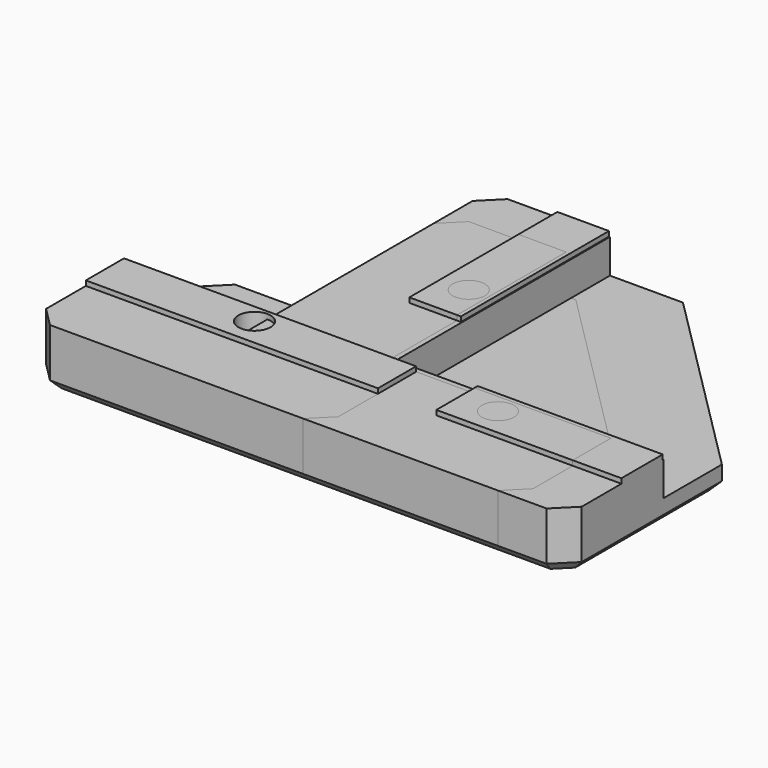
from build123d import *

# Parameters (mm, degrees)
CYLINDER009_R     = 1.65
CYLINDER009_DEPTH = 10
CYLINDER008_R     = 3
CYLINDER008_DEPTH = 2
CYLINDER006_R     = 3
CYLINDER006_DEPTH = 2
CYLINDER007_R     = 1.65
CYLINDER007_DEPTH = 10
BOX011_W          = 30
BOX011_H          = 31
BOX011_DEPTH      = 10
CHAMFER010_SIZE   = 20
BOX007_W          = 35
BOX007_H          = 35
BOX007_DEPTH      = 6
BOX009_W          = 40
BOX009_H          = 40
BOX009_DEPTH      = 6
CHAMFER011_SIZE   = 2
CHAMFER012_SIZE   = 1
BOX008_W          = 19
BOX008_H          = 5.3
BOX008_DEPTH      = 0.5
BOX010_W          = 5.3
BOX010_H          = 19
BOX010_DEPTH      = 0.5
CYLINDER002_R     = 1.65
CYLINDER002_DEPTH = 10
CYLINDER003_R     = 1.65
CYLINDER003_DEPTH = 10
CYLINDER_R        = 3
CYLINDER_DEPTH    = 2
CYLINDER001_R     = 3
CYLINDER001_DEPTH = 2
BOX003_W          = 5.3
BOX003_H          = 14
BOX003_DEPTH      = 0.5
BOX002_W          = 14
BOX002_H          = 5.3
BOX002_DEPTH      = 0.5
BOX001_W          = 35
BOX001_H          = 35
BOX001_DEPTH      = 6
BOX_W             = 35
BOX_H             = 35
BOX_DEPTH         = 6
CHAMFER_SIZE      = 22
CHAMFER001_SIZE   = 2
CHAMFER006_SIZE   = 1
SKETCH_W          = 24
SKETCH_H          = 25
POCKET_DEPTH      = 4
CYLINDER004_R     = 1.65
CYLINDER004_DEPTH = 10
CYLINDER005_R     = 3
CYLINDER005_DEPTH = 2
BOX006_W          = 30
BOX006_H          = 5.3
BOX006_DEPTH      = 0.5
BOX005_W          = 40
BOX005_H          = 30
BOX005_DEPTH      = 6
BOX004_W          = 30
BOX004_H          = 20
BOX004_DEPTH      = 6
CHAMFER007_SIZE   = 5
CHAMFER008_SIZE   = 2
CHAMFER009_SIZE   = 1
SKETCH001_W       = 32
SKETCH001_H       = 9
POCKET001_DEPTH   = 4


with BuildPart() as cylinder009:
    # Cylinder009 → Cylinder009 (new body)
    with BuildSketch(Plane(origin=(25, 10, 0), x_dir=(1, 0, 0), z_dir=(0, 0, 1))):
        Circle(CYLINDER009_R)
    extrude(amount=CYLINDER009_DEPTH)


with BuildPart() as fusion008:
    # Cylinder008 → Cylinder008 (new body)
    with BuildSketch(Plane(origin=(25, 10, 0), x_dir=(1, 0, 0), z_dir=(0, 0, 1))):
        Circle(CYLINDER008_R)
    extrude(amount=CYLINDER008_DEPTH)

    # Fusion008: union Cylinder009
    add(cylinder009.part)


with BuildPart() as fusion008_1:
    # Fusion008 placement: moved
    add(fusion008.part.moved(Location((5, 0, 0))))


with BuildPart() as cylinder006:
    # Cylinder006 → Cylinder006 (new body)
    with BuildSketch(Plane(origin=(10, 25, 0), x_dir=(1, 0, 0), z_dir=(0, 0, 1))):
        Circle(CYLINDER006_R)
    extrude(amount=CYLINDER006_DEPTH)


with BuildPart() as fusion011:
    # Cylinder007 → Cylinder007 (new body)
    with BuildSketch(Plane(origin=(10, 25, 0), x_dir=(1, 0, 0), z_dir=(0, 0, 1))):
        Circle(CYLINDER007_R)
    extrude(amount=CYLINDER007_DEPTH)

    # Fusion009: union Cylinder006
    add(cylinder006.part)


with BuildPart() as fusion011_1:
    # Fusion009 placement: moved
    add(fusion011.part.moved(Location((0, 5, 0))))

    # Fusion011: union Fusion008
    add(fusion008_1.part)


with BuildPart() as chamfer010:
    # Box011 → Box011 (new body)
    with BuildSketch(Plane(origin=(20, 20, 0), x_dir=(1, 0, 0), z_dir=(0, 0, 1))):
        with Locations((15, 15.5)):
            Rectangle(BOX011_W, BOX011_H)
    extrude(amount=BOX011_DEPTH)

    # Chamfer010
    chamfer010_edges = [chamfer010.edges().sort_by_distance(p)[0] for p in [
        (20, 20, 5),
    ]]
    chamfer(chamfer010_edges, length=CHAMFER010_SIZE)


with BuildPart() as cube007:
    # Box007 → Box007 (new body)
    with BuildSketch(Plane(origin=(12.5, 12.5, 2.5), x_dir=(1, 0, 0), z_dir=(0, 0, 1))):
        with Locations((17.5, 17.5)):
            Rectangle(BOX007_W, BOX007_H)
    extrude(amount=BOX007_DEPTH)


with BuildPart() as chamfer012:
    # Box009 → Box009 (new body)
    with BuildSketch(Plane.XY):
        with Locations((20, 20)):
            Rectangle(BOX009_W, BOX009_H)
    extrude(amount=BOX009_DEPTH)

    # Cut007: cut Cube007
    add(cube007.part, mode=Mode.SUBTRACT)

    # Cut008: cut Chamfer010
    add(chamfer010.part, mode=Mode.SUBTRACT)

    # Chamfer011
    chamfer011_edges = [chamfer012.edges().sort_by_distance(p)[0] for p in [
        (0, 0, 3),
        (0, 40, 3),
        (40, 0, 3),
    ]]
    chamfer(chamfer011_edges, length=CHAMFER011_SIZE)

    # Chamfer012
    chamfer012_edges = [chamfer012.edges().sort_by_distance(p)[0] for p in [
        (0, 20, 0),
        (1, 1, 0),
        (1, 39, 0),
        (11, 40, 0),
        (20, 0, 0),
        (39, 1, 0),
        (40, 11, 0),
        (30, 30, 0),
    ]]
    chamfer(chamfer012_edges, length=CHAMFER012_SIZE)


with BuildPart() as cube008:
    # Box008 → Box008 (new body)
    with BuildSketch(Plane(origin=(21, 7.1, 6), x_dir=(1, 0, 0), z_dir=(0, 0, 1))):
        with Locations((9.5, 2.65)):
            Rectangle(BOX008_W, BOX008_H)
    extrude(amount=BOX008_DEPTH)


with BuildPart() as cut009:
    # Box010 → Box010 (new body)
    with BuildSketch(Plane(origin=(7.1, 21, 6), x_dir=(1, 0, 0), z_dir=(0, 0, 1))):
        with Locations((2.65, 9.5)):
            Rectangle(BOX010_W, BOX010_H)
    extrude(amount=BOX010_DEPTH)

    # Fusion007: union Cube008
    add(cube008.part)

    # Fusion010: union Chamfer012
    add(chamfer012.part)

    # Cut009: cut Fusion011
    add(fusion011_1.part, mode=Mode.SUBTRACT)


with BuildPart() as cylinder002:
    # Cylinder002 → Cylinder002 (new body)
    with BuildSketch(Plane(origin=(10, 25, 0), x_dir=(1, 0, 0), z_dir=(0, 0, 1))):
        Circle(CYLINDER002_R)
    extrude(amount=CYLINDER002_DEPTH)


with BuildPart() as fusion001:
    # Cylinder003 → Cylinder003 (new body)
    with BuildSketch(Plane(origin=(25, 10, 0), x_dir=(1, 0, 0), z_dir=(0, 0, 1))):
        Circle(CYLINDER003_R)
    extrude(amount=CYLINDER003_DEPTH)

    # Fusion001: union Cylinder002
    add(cylinder002.part)


with BuildPart() as cylinder:
    # Cylinder → Cylinder (new body)
    with BuildSketch(Plane(origin=(25, 10, 0), x_dir=(1, 0, 0), z_dir=(0, 0, 1))):
        Circle(CYLINDER_R)
    extrude(amount=CYLINDER_DEPTH)


with BuildPart() as fusion003:
    # Cylinder001 → Cylinder001 (new body)
    with BuildSketch(Plane(origin=(10, 25, 0), x_dir=(1, 0, 0), z_dir=(0, 0, 1))):
        Circle(CYLINDER001_R)
    extrude(amount=CYLINDER001_DEPTH)

    # Fusion002: union Cylinder
    add(cylinder.part)

    # Fusion003: union Fusion001
    add(fusion001.part)


with BuildPart() as cube003:
    # Box003 → Box003 (new body)
    with BuildSketch(Plane(origin=(7.1, 21, 6), x_dir=(1, 0, 0), z_dir=(0, 0, 1))):
        with Locations((2.65, 7)):
            Rectangle(BOX003_W, BOX003_H)
    extrude(amount=BOX003_DEPTH)


with BuildPart() as cube002:
    # Box002 → Box002 (new body)
    with BuildSketch(Plane(origin=(21, 7.1, 6), x_dir=(1, 0, 0), z_dir=(0, 0, 1))):
        with Locations((7, 2.65)):
            Rectangle(BOX002_W, BOX002_H)
    extrude(amount=BOX002_DEPTH)


with BuildPart() as cube001:
    # Box001 → Box001 (new body)
    with BuildSketch(Plane(origin=(12.5, 12.5, 2.5), x_dir=(1, 0, 0), z_dir=(0, 0, 1))):
        with Locations((17.5, 17.5)):
            Rectangle(BOX001_W, BOX001_H)
    extrude(amount=BOX001_DEPTH)


with BuildPart() as body:
    # Box → Box (new body)
    with BuildSketch(Plane.XY):
        with Locations((17.5, 17.5)):
            Rectangle(BOX_W, BOX_H)
    extrude(amount=BOX_DEPTH)

    # Cut: cut Cube001
    add(cube001.part, mode=Mode.SUBTRACT)

    # Chamfer
    chamfer_edges = [body.edges().sort_by_distance(p)[0] for p in [
        (35, 35, 1.25),
    ]]
    chamfer(chamfer_edges, length=CHAMFER_SIZE)

    # Chamfer001
    chamfer001_edges = [body.edges().sort_by_distance(p)[0] for p in [
        (0, 35, 3),
        (0, 0, 3),
        (35, 0, 3),
    ]]
    chamfer(chamfer001_edges, length=CHAMFER001_SIZE)

    # Chamfer006
    chamfer006_edges = [body.edges().sort_by_distance(p)[0] for p in [
        (7.5, 35, 0),
        (1, 34, 0),
        (0, 17.5, 0),
        (1, 1, 0),
        (17.5, 0, 0),
        (34, 1, 0),
        (35, 7.5, 0),
        (24, 24, 0),
    ]]
    chamfer(chamfer006_edges, length=CHAMFER006_SIZE)

    # Fusion: union Cube003, Cube002
    add(cube003.part)
    add(cube002.part)

    # Cut004: cut Fusion003
    add(fusion003.part, mode=Mode.SUBTRACT)

    # Sketch (on Face22 of BaseFeature) → Pocket (cut)
    with BuildSketch(Plane.XY.offset(6.5)):
        with Locations((24, 24.5)):
            Rectangle(SKETCH_W, SKETCH_H)
    extrude(amount=-POCKET_DEPTH, mode=Mode.SUBTRACT)


with BuildPart() as cylinder004:
    # Cylinder004 → Cylinder004 (new body)
    with BuildSketch(Plane(origin=(0, 10, 0), x_dir=(1, 0, 0), z_dir=(0, 0, 1))):
        Circle(CYLINDER004_R)
    extrude(amount=CYLINDER004_DEPTH)


with BuildPart() as fusion005:
    # Cylinder005 → Cylinder005 (new body)
    with BuildSketch(Plane(origin=(0, 10, 0), x_dir=(1, 0, 0), z_dir=(0, 0, 1))):
        Circle(CYLINDER005_R)
    extrude(amount=CYLINDER005_DEPTH)

    # Fusion005: union Cylinder004
    add(cylinder004.part)


with BuildPart() as cube006:
    # Box006 → Box006 (new body)
    with BuildSketch(Plane(origin=(-15, 7.1, 6), x_dir=(1, 0, 0), z_dir=(0, 0, 1))):
        with Locations((15, 2.65)):
            Rectangle(BOX006_W, BOX006_H)
    extrude(amount=BOX006_DEPTH)


with BuildPart() as cube005:
    # Box005 → Box005 (new body)
    with BuildSketch(Plane(origin=(-20, 12.5, 2.5), x_dir=(1, 0, 0), z_dir=(0, 0, 1))):
        with Locations((20, 15)):
            Rectangle(BOX005_W, BOX005_H)
    extrude(amount=BOX005_DEPTH)


with BuildPart() as body001:
    # Box004 → Box004 (new body)
    with BuildSketch(Plane(origin=(-15, 0, 0), x_dir=(1, 0, 0), z_dir=(0, 0, 1))):
        with Locations((15, 10)):
            Rectangle(BOX004_W, BOX004_H)
    extrude(amount=BOX004_DEPTH)

    # Cut005: cut Cube005
    add(cube005.part, mode=Mode.SUBTRACT)

    # Fusion006: union Cube006
    add(cube006.part)

    # Chamfer007
    chamfer007_edges = [body001.edges().sort_by_distance(p)[0] for p in [
        (-15, 20, 1.25),
        (15, 20, 1.25),
    ]]
    chamfer(chamfer007_edges, length=CHAMFER007_SIZE)

    # Chamfer008
    chamfer008_edges = [body001.edges().sort_by_distance(p)[0] for p in [
        (-15, 0, 3),
        (15, 0, 3),
    ]]
    chamfer(chamfer008_edges, length=CHAMFER008_SIZE)

    # Chamfer009
    chamfer009_edges = [body001.edges().sort_by_distance(p)[0] for p in [
        (-15, 8.5, 0),
        (-14, 1, 0),
        (0, 0, 0),
        (14, 1, 0),
        (15, 8.5, 0),
        (12.5, 17.5, 0),
        (0, 20, 0),
        (-12.5, 17.5, 0),
    ]]
    chamfer(chamfer009_edges, length=CHAMFER009_SIZE)

    # Cut006: cut Fusion005
    add(fusion005.part, mode=Mode.SUBTRACT)

    # Sketch001 (on Face19 of BaseFeature001) → Pocket001 (cut)
    with BuildSketch(Plane.XY.offset(6.5)):
        with Locations((0, 16.5)):
            Rectangle(SKETCH001_W, SKETCH001_H)
    extrude(amount=-POCKET001_DEPTH, mode=Mode.SUBTRACT)


solid = Compound([cut009.part, body.part, body001.part])
